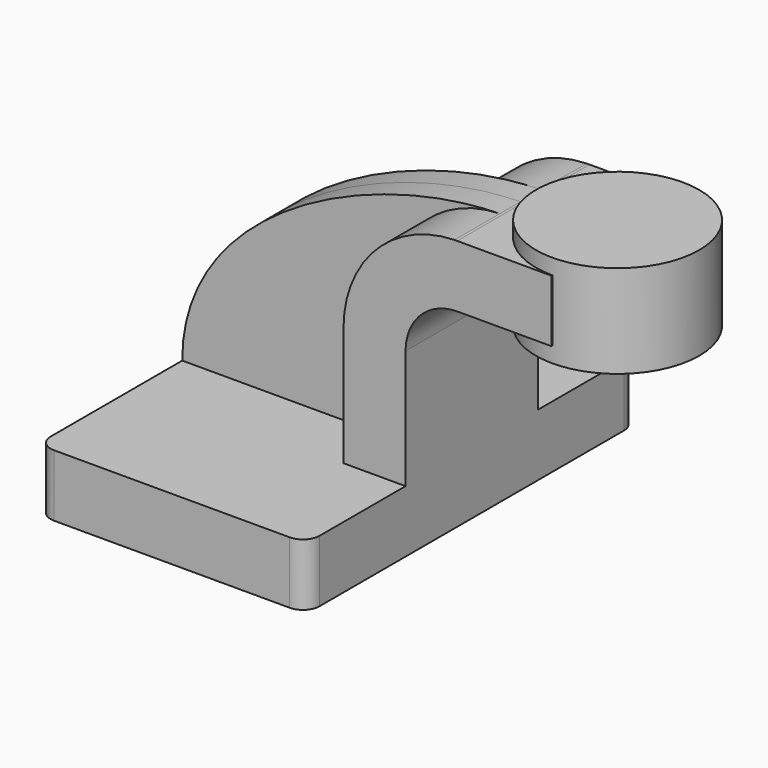
from build123d import *

# Parameters (mm, degrees)
F1_DEPTH = 63.5
F0_W     = 25.7323723912
F0_H     = 19.05
F2_DEPTH = 25.4
F3_DEPTH = 25.4
F4_DEPTH = 7.9375
F6_R     = 5.08


with BuildPart() as f1:
    # F0 (on Front) → F1 (new body, symmetric)
    with BuildSketch(Plane.XZ):
        Polygon((22.225, 9.525), (-41.275, 9.525), (-41.275, -9.525), (41.275, -9.525), (41.275, 9.525), align=None)
    extrude(amount=F1_DEPTH, both=True)

    # F0 (on Front) → F2 (join, symmetric)
    with BuildSketch(Plane.XZ):
        with BuildLine():
            Line((22.225, 46.0502), (22.225, 9.525))
            Line((22.225, 9.525), (41.275, 9.525))
            Line((41.275, 9.525), (41.275, 46.0502))
            ThreePointArc((41.275, 46.0502), (45.9246798487, 57.2755201513), (57.15, 61.9252))
            Line((57.15, 61.9252), (60.325, 61.9252))
            Line((60.325, 61.9252), (60.325, 80.9752))
            Line((60.325, 80.9752), (57.15, 80.9752))
            add(Edge.make_bspline(
                [(56.2643970704, 80.9639699547), (56.5604917652, 80.9691161727), (56.8557023266, 80.972860747), (57.15, 80.9752)],
                knots=[120.7425968685, 120.7425968685, 120.7425968685, 120.7425968685, 121.6248811101, 121.6248811101, 121.6248811101, 121.6248811101], degree=3))
            ThreePointArc((56.2643970704, 80.9639699547), (32.1431478659, 70.4307859516), (22.225, 46.0502))
        make_face()
        with Locations((73.1911861956, 71.4502)):
            Rectangle(F0_W, F0_H)
    extrude(amount=F2_DEPTH, both=True)

    # F0 (on Front) → F3 (join, symmetric)
    with BuildSketch(Plane.XZ):
        with BuildLine():
            Line((22.225, 46.0502), (22.225, 9.525))
            Line((22.225, 9.525), (41.275, 9.525))
            Line((41.275, 9.525), (41.275, 46.0502))
            ThreePointArc((41.275, 46.0502), (45.9246798487, 57.2755201513), (57.15, 61.9252))
            Line((57.15, 61.9252), (60.325, 61.9252))
            Line((60.325, 61.9252), (60.325, 80.9752))
            Line((60.325, 80.9752), (57.15, 80.9752))
            add(Edge.make_bspline(
                [(56.2643970704, 80.9639699547), (56.5604917652, 80.9691161727), (56.8557023266, 80.972860747), (57.15, 80.9752)],
                knots=[120.7425968685, 120.7425968685, 120.7425968685, 120.7425968685, 121.6248811101, 121.6248811101, 121.6248811101, 121.6248811101], degree=3))
            ThreePointArc((56.2643970704, 80.9639699547), (32.1431478659, 70.4307859516), (22.225, 46.0502))
        make_face()
        with Locations((73.1911861956, 71.4502)):
            Rectangle(F0_W, F0_H)
    extrude(amount=F3_DEPTH, both=True)

    # F0 (on Front) → F4 (join, symmetric)
    with BuildSketch(Plane.XZ):
        with BuildLine():
            add(Edge.make_bspline(
                [(-41.275, 9.525), (-41.3365892796, 53.3046842853), (15.7431674311, 80.2596983695), (56.2643970704, 80.9639699547)],
                knots=[0, 0, 0, 0, 120.7425968685, 120.7425968685, 120.7425968685, 120.7425968685], degree=3))
            Line((-41.275, 9.525), (22.225, 9.525))
            Line((22.225, 9.525), (22.225, 46.0502))
            ThreePointArc((22.225, 46.0502), (32.1431478659, 70.4307859516), (56.2643970704, 80.9639699547))
        make_face()
    extrude(amount=F4_DEPTH, both=True)

    # F0 (on Front) → F5 (revolve)
    with BuildSketch(Plane.XZ):
        Polygon((86.0573723912, 85.725), (86.0573723912, 80.9752), (86.0573723912, 61.9252), (86.0573723912, 57.15), (111.125, 57.15), (111.125, 85.725), align=None)
    revolve(axis=Axis((86.0573723912, 0, 71.4375), (0, 0, -1)))

    # F6
    f6_edges = [f1.edges().sort_by_distance(p)[0] for p in [
        (-41.275, 63.5, 0),
        (-41.275, -63.5, 0),
        (41.275, 63.5, 0),
        (41.275, -63.5, 0),
    ]]
    fillet(f6_edges, radius=F6_R)


solid = f1.part
